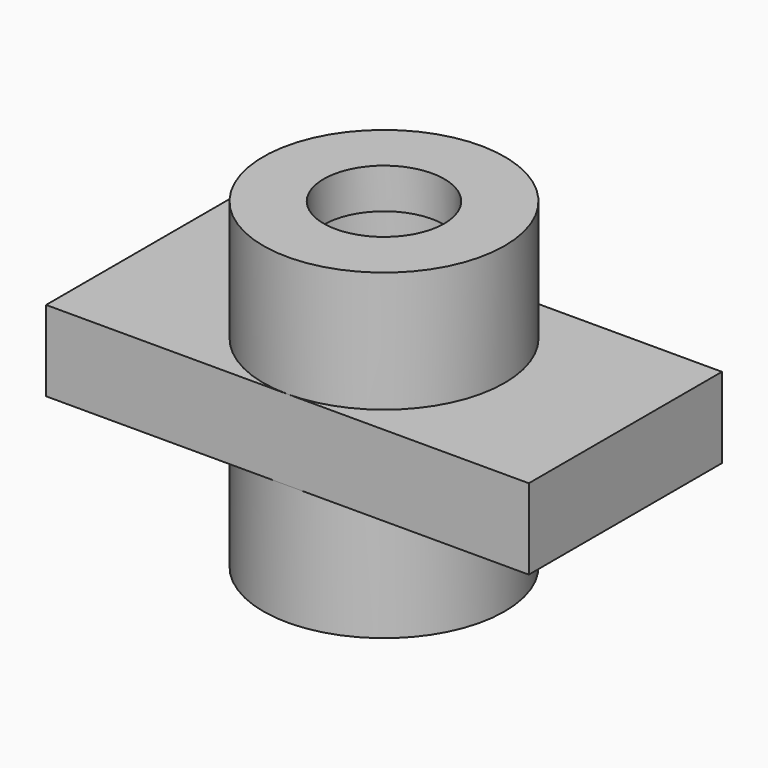
from build123d import *

# Parameters (mm, degrees)
F0_R      = 19.05
F1_DEPTH  = 19.05
F3_DEPTH  = 12.7
F4_R      = 19.05
F5_DEPTH  = 6.35
F6_R      = 9.525
F7_DEPTH  = 57.15
F8_R      = 19.05
F9_DEPTH  = 6.35
F10_R     = 12.7
F11_DEPTH = 6.35
F12_R     = 19.05
F13_DEPTH = 6.35
F14_R     = 9.525
F15_DEPTH = 6.35


with BuildPart() as f1:
    # F0 (on Top) → F1 (new body)
    with BuildSketch(Plane.XY):
        Circle(F0_R)
    extrude(amount=F1_DEPTH)

    # F2 (on face) → F3 (join)
    with BuildSketch(Plane.XY.offset(19.05)):
        Polygon((38.1, 19.05), (0, 19.05), (-38.1, 19.05), (-38.1, -19.05), (0, -19.05), (38.1, -19.05), align=None)
    extrude(amount=F3_DEPTH)

    # F4 (on face) → F5 (join)
    with BuildSketch(Plane.XY.offset(31.75)):
        Circle(F4_R)
    extrude(amount=F5_DEPTH)

    # F6 (on face) → F7 (cut)
    with BuildSketch(Plane.XY.offset(38.1)):
        Circle(F6_R)
    extrude(amount=-F7_DEPTH, mode=Mode.SUBTRACT)

    # F8 (on face) → F9 (join)
    with BuildSketch(Plane.XY.offset(38.1)):
        Circle(F8_R)
    extrude(amount=F9_DEPTH)

    # F10 (on face) → F11 (cut)
    with BuildSketch(Plane.XY.offset(44.45)):
        Circle(F10_R)
    extrude(amount=-F11_DEPTH, mode=Mode.SUBTRACT)

    # F12 (on face) → F13 (join)
    with BuildSketch(Plane.XY.offset(44.45)):
        Circle(F12_R)
    extrude(amount=F13_DEPTH)

    # F14 (on face) → F15 (cut)
    with BuildSketch(Plane.XY.offset(50.8)):
        Circle(F14_R)
    extrude(amount=-F15_DEPTH, mode=Mode.SUBTRACT)


solid = f1.part
